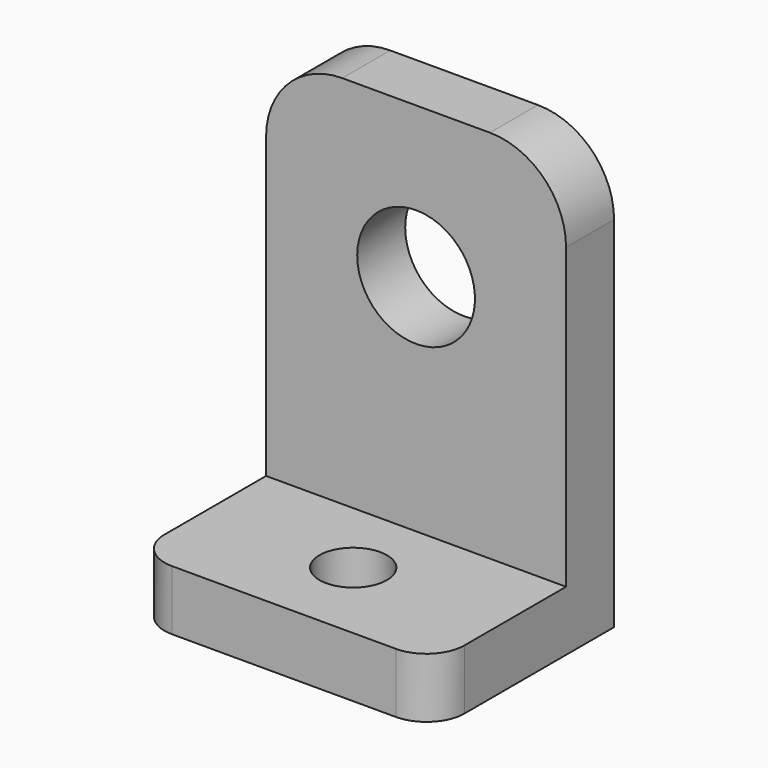
from build123d import *

# Parameters (mm, degrees)
F0_W     = 20
F0_H     = 15
F1_DEPTH = 4
F2_W     = 20
F2_H     = 4
F3_DEPTH = 25
F4_R     = 2.25
F5_DEPTH = 25.4
F6_R     = 3.925
F7_DEPTH = 25.4
F8_R     = 2.54
F9_R     = 5.08


with BuildPart() as f1:
    # F0 (on Top) → F1 (new body)
    with BuildSketch(Plane.XY):
        with Locations((10, 7.5)):
            Rectangle(F0_W, F0_H)
    extrude(amount=F1_DEPTH)

    # F2 (on face) → F3 (join)
    with BuildSketch(Plane.XY.offset(4)):
        with Locations((10, 13)):
            Rectangle(F2_W, F2_H)
    extrude(amount=F3_DEPTH)

    # F4 (on face) → F5 (cut)
    with BuildSketch(Plane.XY.offset(4)):
        with Locations((10, 5.760205)):
            Circle(F4_R)
    extrude(amount=-F5_DEPTH, mode=Mode.SUBTRACT)

    # F6 (on face) → F7 (cut)
    with BuildSketch(Plane(origin=(0, 15, 0), x_dir=(-1, 0, 0), z_dir=(0, 1, 0))):
        with Locations((-10, 18.925)):
            Circle(F6_R)
    extrude(amount=-F7_DEPTH, mode=Mode.SUBTRACT)

    # F8
    f8_edges = [f1.edges().sort_by_distance(p)[0] for p in [
        (20, 0, 2),
        (0, 0, 2),
    ]]
    fillet(f8_edges, radius=F8_R)

    # F9
    f9_edges = [f1.edges().sort_by_distance(p)[0] for p in [
        (20, 13, 29),
        (0, 13, 29),
    ]]
    fillet(f9_edges, radius=F9_R)


solid = f1.part
